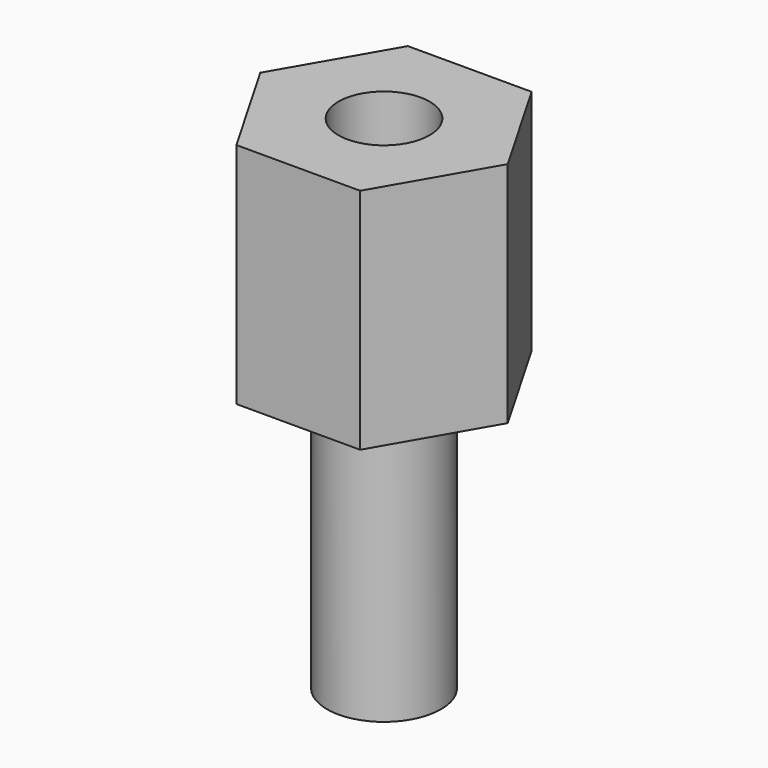
from build123d import *

# Parameters (mm, degrees)
SKETCH_R     = 1
PAD_DEPTH    = 5
SKETCH001_R  = 1.25
PAD001_DEPTH = 6


with BuildPart() as part:
    # Sketch → Pad (new body)
    with BuildSketch(Plane.XY):
        Polygon((1.356773, -2.35), (2.713546, 0), (1.356773, 2.35), (-1.356773, 2.35), (-2.713546, 0), (-1.356773, -2.35), align=None)
        Circle(SKETCH_R, mode=Mode.SUBTRACT)
    extrude(amount=PAD_DEPTH)

    # Sketch001 (on Face8 of Pad) → Pad001 (join)
    with BuildSketch(Plane(origin=(0, 0, 0), x_dir=(1, 0, 0), z_dir=(0, 0, -1))):
        Circle(SKETCH001_R)
    extrude(amount=PAD001_DEPTH)


solid = part.part
